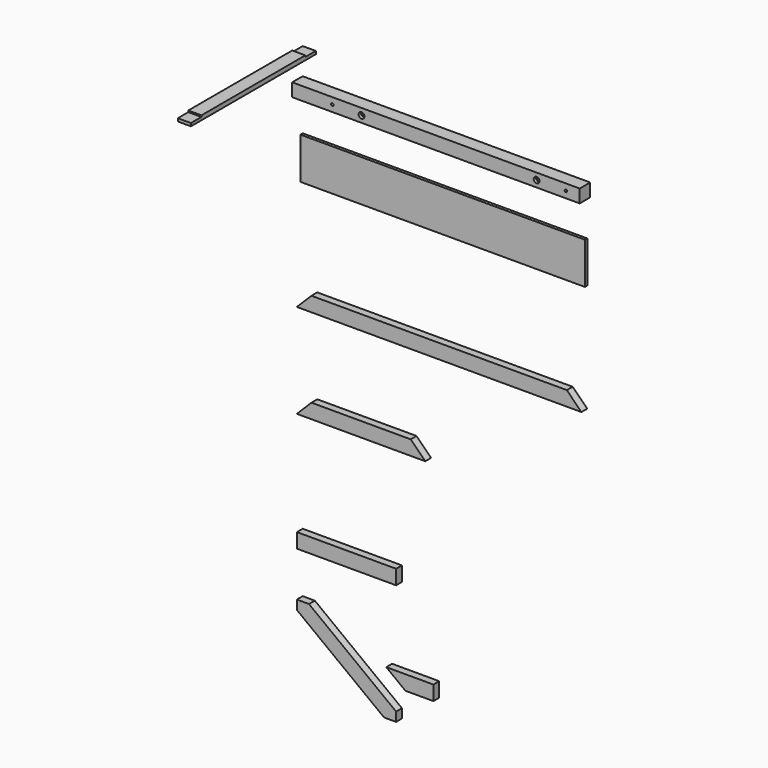
from build123d import *

# Parameters (mm, degrees)
F0_W            = 1970
F0_H            = 90
F1_DEPTH        = 90
F3_DEPTH        = 90
F4_W            = 1950
F4_H            = 285
F5_DEPTH        = 20
F6_DEPTH        = 50
F7_DEPTH        = 50
F4_W_2          = 680
F4_H_2          = 100
F8_DEPTH        = 50
F9_DEPTH        = 25
F10_DEPTH       = 50
F13_D           = 17
F13_DEPTH       = 100
F13_START       = 25
F13_CBORE_D     = 40
F13_CBORE_DEPTH = 20
F13_TIP         = 5.1073152617
F15_D           = 17
F15_DEPTH       = 100
F15_CBORE_D     = 40
F15_CBORE_DEPTH = 20
F15_TIP         = 5.1073152617
F16_DEPTH       = 50


with BuildPart() as f1:
    # F0 (on Front) → F1 (new body)
    with BuildSketch(Plane.XZ):
        with Locations((985, 45)):
            Rectangle(F0_W, F0_H)
    extrude(amount=F1_DEPTH)

    # F13
    # its depths count from where the whole tool has entered the part; down to there all is cleared
    with Locations(Plane.XZ.offset(115).offset(-F13_START)):
        with Locations((1674.9068069458, 45), (474.9068069458, 45)):
            CounterBoreHole(F13_D / 2, F13_CBORE_D / 2, F13_CBORE_DEPTH, depth=F13_DEPTH)
            with Locations((0, 0, -(F13_DEPTH + F13_TIP / 2))):  # 118° drill point
                Cone(0, F13_D / 2, F13_TIP, mode=Mode.SUBTRACT)

    # F15
    with Locations(Plane(origin=(0, 0, 0), x_dir=(-1, 0, 0), z_dir=(0, 1, 0))):
        with Locations((-1875, 45), (-275, 45)):
            CounterBoreHole(F15_D / 2, F15_CBORE_D / 2, F15_CBORE_DEPTH, depth=F15_DEPTH)
            with Locations((0, 0, -(F15_DEPTH + F15_TIP / 2))):  # 118° drill point
                Cone(0, F15_D / 2, F15_TIP, mode=Mode.SUBTRACT)


with BuildPart() as f3:
    # F2 (on Right) → F3 (new body)
    with BuildSketch(Plane.YZ):
        Polygon((-1070, 251.8908083439), (0, 251.8908083439), (0, 271.8908083439), (-90, 271.8908083439), (-90, 281.8908083439), (-980, 281.8908083439), (-980, 271.8908083439), (-1070, 271.8908083439), align=None)
    extrude(amount=F3_DEPTH)


with BuildPart() as f5:
    # F4 (on Front) → F5 (new body)
    with BuildSketch(Plane.XZ):
        with Locations((974.7011631165, -396.4535624759)):
            Rectangle(F4_W, F4_H)
    extrude(amount=F5_DEPTH)


with BuildPart() as f6:
    # F4 (on Front) → F6 (new body)
    with BuildSketch(Plane.XZ):
        Polygon((1849.7011631165, -1181.3003856914), (99.7011631165, -1181.3003856914), (-0.2988368835, -1281.3003856914), (1949.7011631165, -1281.3003856914), align=None)
    extrude(amount=F6_DEPTH)


with BuildPart() as f7:
    # F4 (on Front) → F7 (new body)
    with BuildSketch(Plane.XZ):
        Polygon((779.9345557821, -1826.0660855043), (99.9345557821, -1826.0660855043), (-0.0654442179, -1926.0660855043), (879.9345557821, -1926.0660855043), align=None)
    extrude(amount=F7_DEPTH)


with BuildPart() as f8:
    # F4 (on Front) → F8 (new body)
    with BuildSketch(Plane.XZ):
        with Locations((340, -2689.2425537109)):
            Rectangle(F4_W_2, F4_H_2)
    extrude(amount=F8_DEPTH)


with BuildPart() as f9:
    # F4 (on Front) → F9 (new body)
    with BuildSketch(Plane.XZ):
        Polygon((83.2051316108, -3046.12084198), (0, -3046.12084198), (0, -3108.931015227), (597.3870061741, -3563.12084198), (680, -3563.12084198), (680, -3500.8423168428), (488.0930180991, -3354.62084198), align=None)
    extrude(amount=F9_DEPTH)

    # F4 (on Front) → F10 (join)
    with BuildSketch(Plane.XZ):
        Polygon((83.2051316108, -3046.12084198), (0, -3046.12084198), (0, -3108.931015227), (597.3870061741, -3563.12084198), (680, -3563.12084198), (680, -3500.8423168428), (488.0930180991, -3354.62084198), align=None)
    extrude(amount=F10_DEPTH)


with BuildPart() as f16:
    # F4 (on Front) → F16 (new body)
    with BuildSketch(Plane.XZ):
        Polygon((935.538090504, -3354.6207904816), (935.538090504, -3254.6207904816), (612.3870611191, -3254.6207904816), (743.6311086031, -3354.6207904816), align=None)
    extrude(amount=F16_DEPTH)


solid = Compound([f1.part, f3.part, f5.part, f6.part, f7.part, f8.part, f9.part, f16.part])
